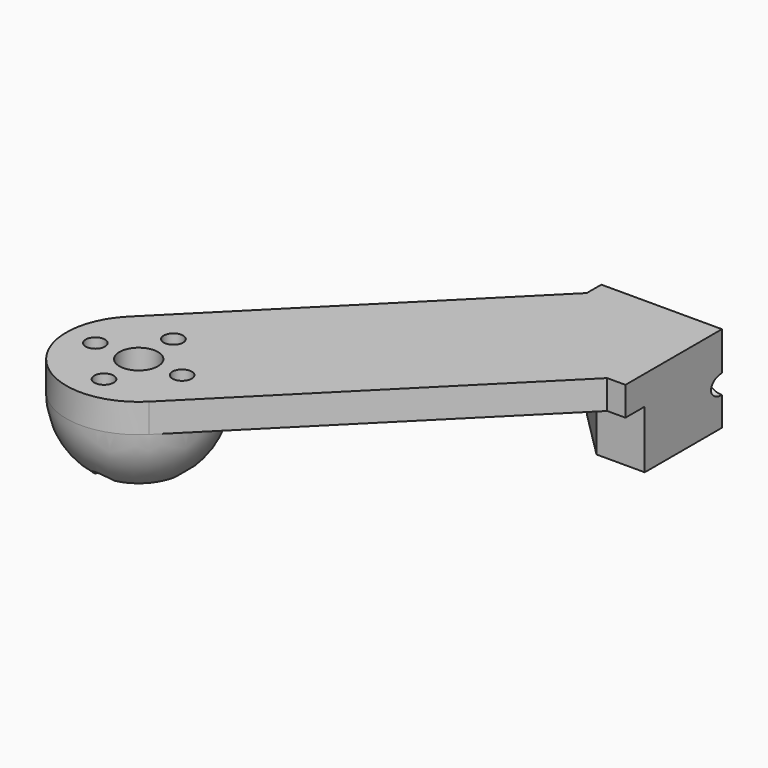
from build123d import *

# Parameters (mm, degrees)
F0_R          = 1
F0_R_2        = 2
F1_DEPTH      = 3
F3_ANGLE      = 180
F4_DEPTH      = 25
F5_DEPTH      = 7
F6_R          = 1
F7_DEPTH      = 10.6076017178
F7_DEPTH_BACK = 47.501
F9_W          = 56.1214126647
F9_H          = 73.8545637578
F10_DEPTH     = 25


with BuildPart() as f1:
    # F0 (on Top) → F1 (new body)
    with BuildSketch(Plane.XY):
        with BuildLine():
            Line((0, -12.5), (0, 0))
            Line((0, 0), (-12.5, 0))
            Line((-12.5, 0), (-12.5, -1.8933982822))
            Line((-12.5, -1.8933982822), (-38.8908729653, -28.2842712475))
            ThreePointArc((-38.8908729653, -28.2842712475), (-38.8908729653, -38.8908729653), (-28.2842712475, -38.8908729653))
            Line((-28.2842712475, -38.8908729653), (-1.8933982822, -12.5))
            Line((-1.8933982822, -12.5), (0, -12.5))
        make_face()
        with Locations((-33.5875721064, -38.0875721064)):
            Circle(F0_R, mode=Mode.SUBTRACT)
        with Locations((-38.0875721064, -33.5875721064)):
            Circle(F0_R, mode=Mode.SUBTRACT)
        with Locations((-33.5875721064, -33.5875721064)):
            Circle(F0_R_2, mode=Mode.SUBTRACT)
        with Locations((-29.0875721064, -33.5875721064)):
            Circle(F0_R, mode=Mode.SUBTRACT)
        with Locations((-33.5875721064, -29.0875721064)):
            Circle(F0_R, mode=Mode.SUBTRACT)
    extrude(amount=F1_DEPTH)

    # F2 (on Top) → F3 (revolve)
    with BuildSketch(Plane.XY):
        with BuildLine():
            Line((-38.8908729653, -38.8908729653), (-28.2842712475, -28.2842712475))
            ThreePointArc((-28.2842712475, -28.2842712475), (-38.8908729653, -28.2842712475), (-38.8908729653, -38.8908729653))
        make_face()
    revolve(axis=Axis((-33.5875721064, -33.5875721064, 0), (-0.7071067812, -0.7071067812, 0)), revolution_arc=F3_ANGLE)

    # F0 (on Top) → F4 (cut)
    with BuildSketch(Plane.XY):
        with Locations((-33.5875721064, -38.0875721064)):
            Circle(F0_R)
        with Locations((-29.0875721064, -33.5875721064)):
            Circle(F0_R)
        with Locations((-38.0875721064, -33.5875721064)):
            Circle(F0_R)
        with Locations((-33.5875721064, -29.0875721064)):
            Circle(F0_R)
    extrude(amount=-F4_DEPTH, mode=Mode.SUBTRACT)

    # F2 (on Top) → F5 (join)
    with BuildSketch(Plane.XY):
        Polygon((0, -10), (0, 0), (-10, 0), (-10, -5), (-5, -10), align=None)
    extrude(amount=-F5_DEPTH)

    # F6 (on face) → F7 (cut, two sides)
    with BuildSketch(Plane(origin=(-7.5, -7.5, 0), x_dir=(0.7071067812, -0.7071067812, 0), z_dir=(-0.7071067812, -0.7071067812, 0))) as f7_sk:
        with Locations((0, -2)):
            Circle(F6_R)
    extrude(amount=-F7_DEPTH, mode=Mode.SUBTRACT)
    extrude(f7_sk.sketch, amount=F7_DEPTH_BACK, mode=Mode.SUBTRACT)

    # F9 (on offset) → F10 (cut)
    with BuildSketch(Plane.XY.offset(-6)):
        with Locations((-17.140891403, -24.3696067482)):
            Rectangle(F9_W, F9_H)
    extrude(amount=-F10_DEPTH, mode=Mode.SUBTRACT)


solid = f1.part
